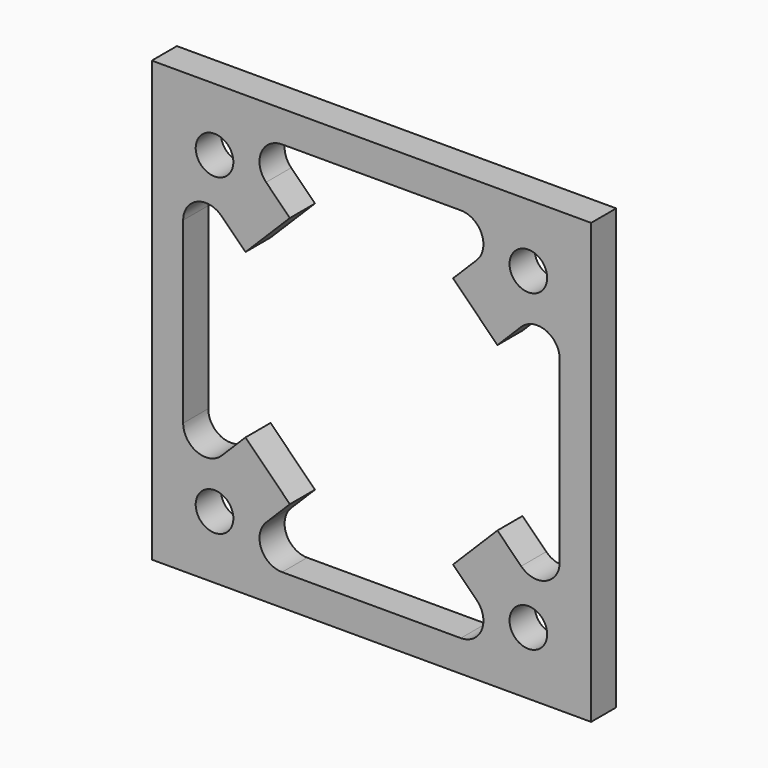
from build123d import *

# Parameters (mm, degrees)
F0_R     = 3
F1_DEPTH = 5


with BuildPart() as f1:
    # F0 (on Front) → F1 (new body)
    with BuildSketch(Plane.XZ):
        with BuildLine():
            Line((0, 35), (0, 0))
            Line((0, 0), (5, 0))
            Line((5, 0), (5, 14.237763))
            ThreePointArc((5, 14.237763), (7.22234, 17.56373), (11.145584, 16.783348))
            Line((11.145584, 16.783348), (14.928932, 13))
            Line((14.928932, 13), (22, 20.071068))
            Line((22, 20.071068), (18.216652, 23.854416))
            ThreePointArc((18.216652, 23.854416), (17.43627, 27.77766), (20.762237, 30))
            Line((20.762237, 30), (35, 30))
            Line((35, 30), (35, 35))
            Line((35, 35), (0, 35))
        make_face()
        with Locations((10, 25)):
            Circle(F0_R, mode=Mode.SUBTRACT)
        with BuildLine():
            Line((70, 35), (35, 35))
            Line((35, 35), (35, 30))
            Line((35, 30), (49.237763, 30))
            ThreePointArc((49.237763, 30), (52.56373, 27.77766), (51.783348, 23.854416))
            Line((51.783348, 23.854416), (48, 20.071068))
            Line((48, 20.071068), (55.071068, 13))
            Line((55.071068, 13), (58.854416, 16.783348))
            ThreePointArc((58.854416, 16.783348), (62.77766, 17.56373), (65, 14.237763))
            Line((65, 14.237763), (65, 0))
            Line((65, 0), (70, 0))
            Line((70, 0), (70, 35))
        make_face()
        with Locations((60, 25)):
            Circle(F0_R, mode=Mode.SUBTRACT)
        with BuildLine():
            Line((35, -30), (35, -35))
            Line((35, -35), (70, -35))
            Line((70, -35), (70, 0))
            Line((70, 0), (65, 0))
            Line((65, 0), (65, -14.237763))
            ThreePointArc((65, -14.237763), (62.77766, -17.56373), (58.854416, -16.783348))
            Line((58.854416, -16.783348), (55.071068, -13))
            Line((55.071068, -13), (48, -20.071068))
            Line((48, -20.071068), (51.783348, -23.854416))
            ThreePointArc((51.783348, -23.854416), (52.56373, -27.77766), (49.237763, -30))
            Line((49.237763, -30), (35, -30))
        make_face()
        with Locations((60, -25)):
            Circle(F0_R, mode=Mode.SUBTRACT)
        with BuildLine():
            Line((5, 0), (0, 0))
            Line((0, 0), (0, -35))
            Line((0, -35), (35, -35))
            Line((35, -35), (35, -30))
            Line((35, -30), (20.762237, -30))
            ThreePointArc((20.762237, -30), (17.43627, -27.77766), (18.216652, -23.854416))
            Line((18.216652, -23.854416), (22, -20.071068))
            Line((22, -20.071068), (14.928932, -13))
            Line((14.928932, -13), (11.145584, -16.783348))
            ThreePointArc((11.145584, -16.783348), (7.22234, -17.56373), (5, -14.237763))
            Line((5, -14.237763), (5, 0))
        make_face()
        with Locations((10, -25)):
            Circle(F0_R, mode=Mode.SUBTRACT)
    extrude(amount=F1_DEPTH)


solid = f1.part
